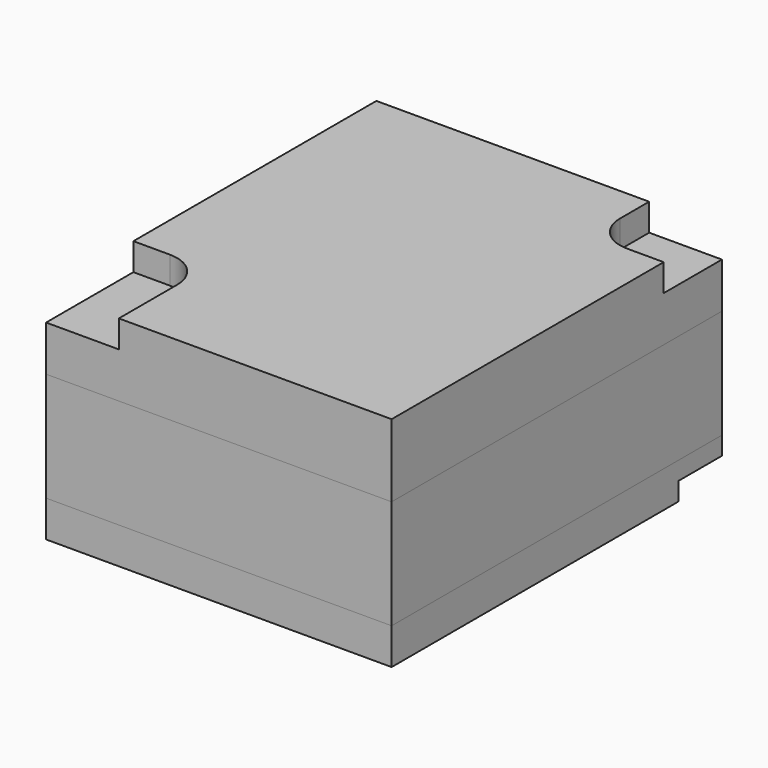
from build123d import *

# Parameters (mm, degrees)
SKETCH_W        = 9.5
SKETCH_H        = 11.35
PAD_DEPTH       = 1
POCKET002_DEPTH = 0.5
SKETCH002_W     = 9.5
SKETCH002_H     = 11.35
PAD001_DEPTH    = 3
SKETCH001_W     = 9.5
SKETCH001_H     = 11.35
PAD002_DEPTH    = 2
POCKET_DEPTH    = 0.75
POCKET001_DEPTH = 0.75


with BuildPart() as housing_bottom:
    # Sketch → Pad (new body)
    with BuildSketch(Plane.XY):
        with Locations((0, -0.825)):
            Rectangle(SKETCH_W, SKETCH_H)
    extrude(amount=PAD_DEPTH)

    # Sketch005 → Pocket002 (cut)
    with BuildSketch(Plane.XY):
        with BuildLine():
            Line((3.25, 4.85), (4.75, 4.85))
            Line((4.75, 4.85), (4.75, 3.35))
            Line((4.75, 3.35), (4.25, 3.35))
            ThreePointArc((3.25, 4.35), (3.542893, 3.642893), (4.25, 3.35))
            Line((3.25, 4.35), (3.25, 4.85))
        make_face()
    extrude(amount=POCKET002_DEPTH, mode=Mode.SUBTRACT)


with BuildPart() as housing_middle:
    # Sketch002 → Pad001 (new body)
    with BuildSketch(Plane.XY.offset(1)):
        with Locations((0, -0.825)):
            Rectangle(SKETCH002_W, SKETCH002_H)
    extrude(amount=PAD001_DEPTH)


with BuildPart() as housing_top:
    # Sketch001 → Pad002 (new body)
    with BuildSketch(Plane.XY.offset(4)):
        with Locations((0, -0.825)):
            Rectangle(SKETCH001_W, SKETCH001_H)
    extrude(amount=PAD002_DEPTH)

    # Sketch003 → Pocket (cut)
    with BuildSketch(Plane.XY.offset(6)):
        with BuildLine():
            Line((2.75, 4.85), (4.75, 4.85))
            Line((4.75, 4.85), (4.75, 2.85))
            Line((4.75, 2.85), (3.75, 2.85))
            ThreePointArc((2.75, 3.85), (3.042893, 3.142893), (3.75, 2.85))
            Line((2.75, 3.85), (2.75, 4.85))
        make_face()
    extrude(amount=-POCKET_DEPTH, mode=Mode.SUBTRACT)

    # Sketch004 → Pocket001 (cut)
    with BuildSketch(Plane.XY.offset(6)):
        with BuildLine():
            Line((-4.75, -3.5), (-3.75, -3.5))
            ThreePointArc((-2.75, -4.5), (-3.042893, -3.792893), (-3.75, -3.5))
            Line((-2.75, -4.5), (-2.75, -6.5))
            Line((-2.75, -6.5), (-4.75, -6.5))
            Line((-4.75, -6.5), (-4.75, -3.5))
        make_face()
    extrude(amount=-POCKET001_DEPTH, mode=Mode.SUBTRACT)


solid = Compound([housing_bottom.part, housing_middle.part, housing_top.part])
